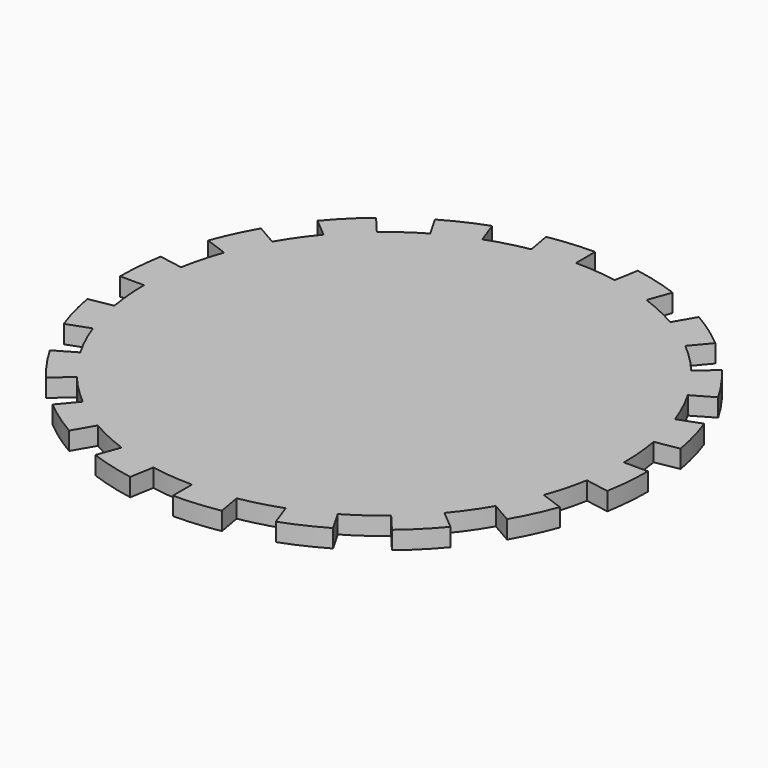
from build123d import *

# Parameters (mm, degrees)
F0_R     = 69.85
F1_DEPTH = 4.7625
F3_DEPTH = 25.4


with BuildPart() as f1:
    # F0 (on Top) → F1 (new body)
    with BuildSketch(Plane.XY):
        Circle(F0_R)
    extrude(amount=F1_DEPTH)

    # F2 (on face) → F3 (cut)
    with BuildSketch(Plane.XY.offset(4.7625)):
        with BuildLine():
            ThreePointArc((12.12932521, 68.7888215479), (6.0878286309, 69.5841996617), (0, 69.85))
            Line((0, 69.85), (0, 63.5))
            ThreePointArc((0, 63.5), (5.5343896645, 63.2583633288), (11.0266592819, 62.5352923163))
            Line((11.0266592819, 62.5352923163), (12.12932521, 68.7888215479))
        make_face()
        with BuildLine():
            ThreePointArc((-12.12932521, 68.7888215479), (-18.0785103004, 67.4699189663), (-23.8901070113, 65.6375295619))
            Line((-23.8901070113, 65.6375295619), (-21.7182791012, 59.6704814199))
            ThreePointArc((-21.7182791012, 59.6704814199), (-16.435009364, 61.3362899694), (-11.0266592819, 62.5352923163))
            Line((-11.0266592819, 62.5352923163), (-12.12932521, 68.7888215479))
        make_face()
        with BuildLine():
            ThreePointArc((-34.925, 60.4918744543), (-40.0643140791, 57.2177702936), (-44.8987145366, 53.5082043519))
            Line((-44.8987145366, 53.5082043519), (-40.8170132151, 48.6438221381))
            ThreePointArc((-40.8170132151, 48.6438221381), (-36.4221037083, 52.0161548124), (-31.75, 54.9926131403))
            Line((-31.75, 54.9926131403), (-34.925, 60.4918744543))
        make_face()
        with BuildLine():
            ThreePointArc((-53.5082043519, 44.8987145366), (-57.2177702936, 40.0643140791), (-60.4918744543, 34.925))
            Line((-60.4918744543, 34.925), (-54.9926131403, 31.75))
            ThreePointArc((-54.9926131403, 31.75), (-52.0161548124, 36.4221037083), (-48.6438221381, 40.8170132151))
            Line((-48.6438221381, 40.8170132151), (-53.5082043519, 44.8987145366))
        make_face()
        with BuildLine():
            ThreePointArc((-65.6375295619, 23.8901070113), (-67.4699189663, 18.0785103004), (-68.7888215479, 12.12932521))
            Line((-68.7888215479, 12.12932521), (-62.5352923163, 11.0266592819))
            ThreePointArc((-62.5352923163, 11.0266592819), (-61.3362899694, 16.435009364), (-59.6704814199, 21.7182791012))
            Line((-59.6704814199, 21.7182791012), (-65.6375295619, 23.8901070113))
        make_face()
        with BuildLine():
            ThreePointArc((-69.85, 0), (-69.5841996617, -6.0878286309), (-68.7888215479, -12.12932521))
            Line((-68.7888215479, -12.12932521), (-62.5352923163, -11.0266592819))
            ThreePointArc((-62.5352923163, -11.0266592819), (-63.2583633288, -5.5343896645), (-63.5, 0))
            Line((-63.5, 0), (-69.85, 0))
        make_face()
        with BuildLine():
            ThreePointArc((-65.6375295619, -23.8901070113), (-63.3055989245, -29.5198855826), (-60.4918744543, -34.925))
            Line((-60.4918744543, -34.925), (-54.9926131403, -31.75))
            ThreePointArc((-54.9926131403, -31.75), (-57.5505444768, -26.8362596205), (-59.6704814199, -21.7182791012))
            Line((-59.6704814199, -21.7182791012), (-65.6375295619, -23.8901070113))
        make_face()
        with BuildLine():
            ThreePointArc((-53.5082043519, -44.8987145366), (-49.3914086659, -49.3914086659), (-44.8987145366, -53.5082043519))
            Line((-44.8987145366, -53.5082043519), (-40.8170132151, -48.6438221381))
            ThreePointArc((-40.8170132151, -48.6438221381), (-44.9012806053, -44.9012806053), (-48.6438221381, -40.8170132151))
            Line((-48.6438221381, -40.8170132151), (-53.5082043519, -44.8987145366))
        make_face()
        with BuildLine():
            ThreePointArc((-34.925, -60.4918744543), (-29.5198855826, -63.3055989245), (-23.8901070113, -65.6375295619))
            Line((-23.8901070113, -65.6375295619), (-21.7182791012, -59.6704814199))
            ThreePointArc((-21.7182791012, -59.6704814199), (-26.8362596205, -57.5505444768), (-31.75, -54.9926131403))
            Line((-31.75, -54.9926131403), (-34.925, -60.4918744543))
        make_face()
        with BuildLine():
            ThreePointArc((-12.12932521, -68.7888215479), (-6.0878286309, -69.5841996617), (0, -69.85))
            Line((0, -69.85), (0, -63.5))
            ThreePointArc((0, -63.5), (-5.5343896645, -63.2583633288), (-11.0266592819, -62.5352923163))
            Line((-11.0266592819, -62.5352923163), (-12.12932521, -68.7888215479))
        make_face()
        with BuildLine():
            ThreePointArc((12.12932521, -68.7888215479), (18.0785103004, -67.4699189663), (23.8901070113, -65.6375295619))
            Line((23.8901070113, -65.6375295619), (21.7182791012, -59.6704814199))
            ThreePointArc((21.7182791012, -59.6704814199), (16.435009364, -61.3362899694), (11.0266592819, -62.5352923163))
            Line((11.0266592819, -62.5352923163), (12.12932521, -68.7888215479))
        make_face()
        with BuildLine():
            ThreePointArc((34.925, -60.4918744543), (40.0643140791, -57.2177702936), (44.8987145366, -53.5082043519))
            Line((44.8987145366, -53.5082043519), (40.8170132151, -48.6438221381))
            ThreePointArc((40.8170132151, -48.6438221381), (36.4221037083, -52.0161548124), (31.75, -54.9926131403))
            Line((31.75, -54.9926131403), (34.925, -60.4918744543))
        make_face()
        with BuildLine():
            ThreePointArc((53.5082043519, -44.8987145366), (57.2177702936, -40.0643140791), (60.4918744543, -34.925))
            Line((60.4918744543, -34.925), (54.9926131403, -31.75))
            ThreePointArc((54.9926131403, -31.75), (52.0161548124, -36.4221037083), (48.6438221381, -40.8170132151))
            Line((48.6438221381, -40.8170132151), (53.5082043519, -44.8987145366))
        make_face()
        with BuildLine():
            ThreePointArc((65.6375295619, -23.8901070113), (67.4699189663, -18.0785103004), (68.7888215479, -12.12932521))
            Line((68.7888215479, -12.12932521), (62.5352923163, -11.0266592819))
            ThreePointArc((62.5352923163, -11.0266592819), (61.3362899694, -16.435009364), (59.6704814199, -21.7182791012))
            Line((59.6704814199, -21.7182791012), (65.6375295619, -23.8901070113))
        make_face()
        with BuildLine():
            ThreePointArc((69.85, 0), (69.5841996617, 6.0878286309), (68.7888215479, 12.12932521))
            Line((68.7888215479, 12.12932521), (62.5352923163, 11.0266592819))
            ThreePointArc((62.5352923163, 11.0266592819), (63.2583633288, 5.5343896645), (63.5, 0))
            Line((63.5, 0), (69.85, 0))
        make_face()
        with BuildLine():
            ThreePointArc((65.6375295619, 23.8901070113), (63.3055989245, 29.5198855826), (60.4918744543, 34.925))
            Line((60.4918744543, 34.925), (54.9926131403, 31.75))
            ThreePointArc((54.9926131403, 31.75), (57.5505444768, 26.8362596205), (59.6704814199, 21.7182791012))
            Line((59.6704814199, 21.7182791012), (65.6375295619, 23.8901070113))
        make_face()
        with BuildLine():
            ThreePointArc((53.5082043519, 44.8987145366), (49.3914086659, 49.3914086659), (44.8987145366, 53.5082043519))
            Line((44.8987145366, 53.5082043519), (40.8170132151, 48.6438221381))
            ThreePointArc((40.8170132151, 48.6438221381), (44.9012806053, 44.9012806053), (48.6438221381, 40.8170132151))
            Line((48.6438221381, 40.8170132151), (53.5082043519, 44.8987145366))
        make_face()
        with BuildLine():
            ThreePointArc((34.925, 60.4918744543), (29.5198855826, 63.3055989245), (23.8901070113, 65.6375295619))
            Line((23.8901070113, 65.6375295619), (21.7182791012, 59.6704814199))
            ThreePointArc((21.7182791012, 59.6704814199), (26.8362596205, 57.5505444768), (31.75, 54.9926131403))
            Line((31.75, 54.9926131403), (34.925, 60.4918744543))
        make_face()
    extrude(amount=-F3_DEPTH, mode=Mode.SUBTRACT)


solid = f1.part
